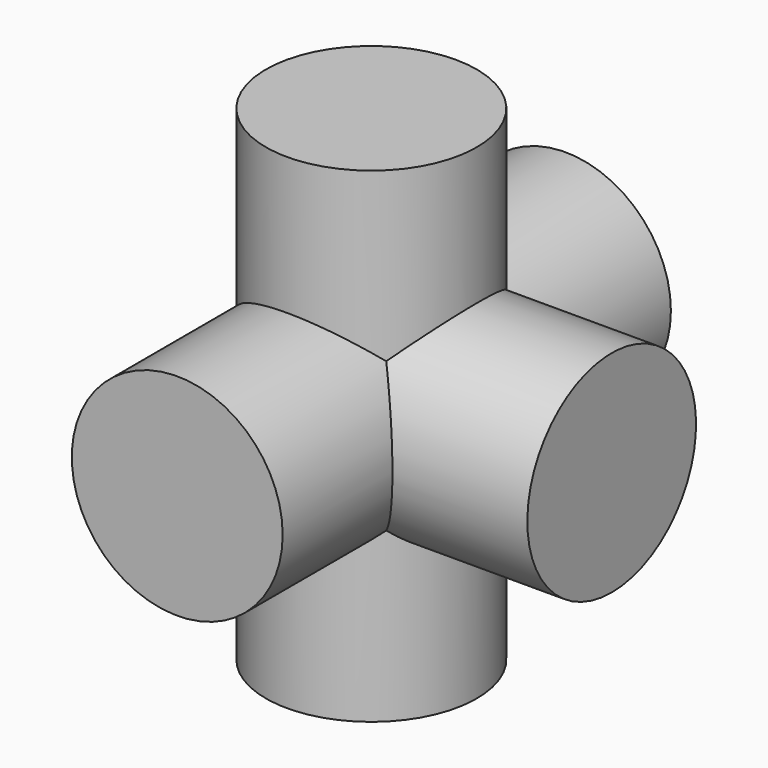
from build123d import *

# Parameters (mm, degrees)
CYLINDER013_R     = 13.9827
CYLINDER013_DEPTH = 64.36
CYLINDER011_R     = 13.9827
CYLINDER011_DEPTH = 64.36
CYLINDER012_R     = 13.9827
CYLINDER012_DEPTH = 31.877


with BuildPart() as cylinder013:
    # Cylinder013 → Cylinder013 (new body)
    with BuildSketch(Plane(origin=(0, 0, -32.18), x_dir=(0, 1, 0), z_dir=(0, 0, 1))):
        Circle(CYLINDER013_R)
    extrude(amount=CYLINDER013_DEPTH)


with BuildPart() as cylinder011:
    # Cylinder011 → Cylinder011 (new body)
    with BuildSketch(Plane.XZ.offset(-32.1818)):
        Circle(CYLINDER011_R)
    extrude(amount=CYLINDER011_DEPTH)


with BuildPart() as f_5_way:
    # Cylinder012 → Cylinder012 (new body)
    with BuildSketch(Plane(origin=(0, 0, 0), x_dir=(0, 0, -1), z_dir=(1, 0, 0))):
        Circle(CYLINDER012_R)
    extrude(amount=CYLINDER012_DEPTH)

    # Fusion005: union Cylinder013, Cylinder011
    add(cylinder013.part)
    add(cylinder011.part)


solid = f_5_way.part
